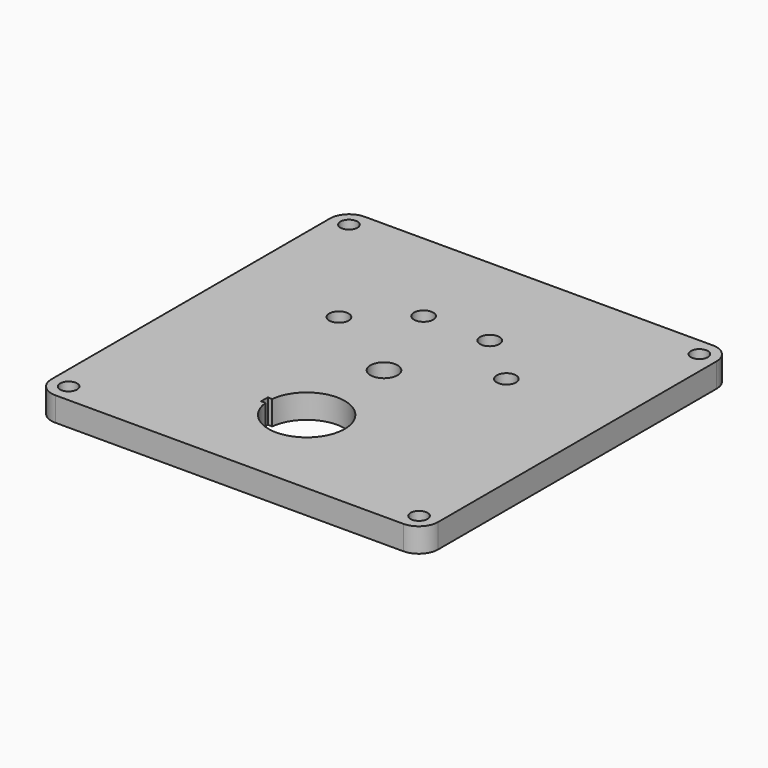
from build123d import *

# Parameters (mm, degrees)
F0_R     = 2.2225
F0_R_2   = 3.556
F0_R_3   = 2.54
F1_DEPTH = 6.35


with BuildPart() as f1:
    # F0 (on Top) → F1 (new body)
    with BuildSketch(Plane.XY):
        with BuildLine():
            Line((45.72, 50.8), (-45.72, 50.8))
            ThreePointArc((-45.72, 50.8), (-49.312102, 49.312102), (-50.8, 45.72))
            Line((-50.8, 45.72), (-50.8, -45.72))
            ThreePointArc((-50.8, -45.72), (-49.312102, -49.312102), (-45.72, -50.8))
            Line((-45.72, -50.8), (45.72, -50.8))
            ThreePointArc((45.72, -50.8), (49.312102, -49.312102), (50.8, -45.72))
            Line((50.8, -45.72), (50.8, 45.72))
            ThreePointArc((50.8, 45.72), (49.312102, 49.312102), (45.72, 50.8))
        make_face()
        with Locations((-46.0375, -46.0375)):
            Circle(F0_R, mode=Mode.SUBTRACT)
        with BuildLine():
            ThreePointArc((-9.939316, -24.3), (10, -25.4), (-9.939316, -26.5))
            Line((-9.939316, -26.5), (-11.1, -26.5))
            Line((-11.1, -26.5), (-11.1, -25.4))
            Line((-11.1, -25.4), (-11.1, -24.3))
            Line((-11.1, -24.3), (-9.939316, -24.3))
        make_face(mode=Mode.SUBTRACT)
        Circle(F0_R_2, mode=Mode.SUBTRACT)
        with Locations((46.0375, -46.0375)):
            Circle(F0_R, mode=Mode.SUBTRACT)
        with Locations((-21.997045, 12.7)):
            Circle(F0_R_3, mode=Mode.SUBTRACT)
        with Locations((-8.687312, 23.868193)):
            Circle(F0_R_3, mode=Mode.SUBTRACT)
        with Locations((-46.0375, 46.0375)):
            Circle(F0_R, mode=Mode.SUBTRACT)
        with Locations((8.687312, 23.868193)):
            Circle(F0_R_3, mode=Mode.SUBTRACT)
        with Locations((21.997045, 12.7)):
            Circle(F0_R_3, mode=Mode.SUBTRACT)
        with Locations((46.0375, 46.0375)):
            Circle(F0_R, mode=Mode.SUBTRACT)
    extrude(amount=F1_DEPTH)


solid = f1.part
